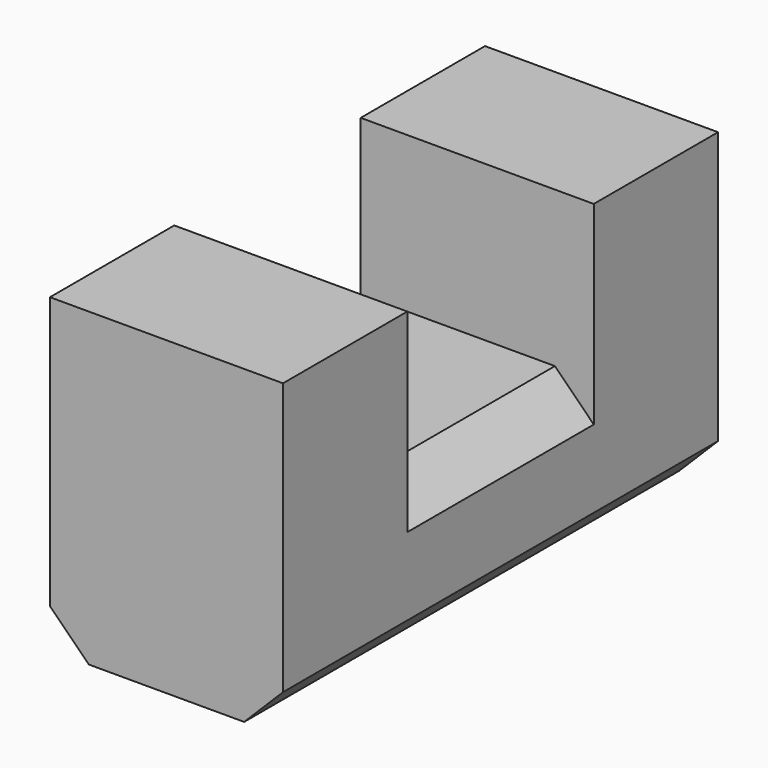
from build123d import *

# Parameters (mm, degrees)
BOX027_W              = 3
BOX027_H              = 3
BOX027_DEPTH          = 2
BOX026_W              = 3
BOX026_H              = 7
BOX026_DEPTH          = 4
CHAMFER001004003_SIZE = 0.5


with BuildPart() as cube027:
    # Box027 → Box027 (new body)
    with BuildSketch(Plane(origin=(0, 2, 2), x_dir=(1, 0, 0), z_dir=(0, 0, 1))):
        with Locations((1.5, 1.5)):
            Rectangle(BOX027_W, BOX027_H)
    extrude(amount=BOX027_DEPTH)


with BuildPart() as chamfer001004003:
    # Box026 → Box026 (new body)
    with BuildSketch(Plane.XY):
        with Locations((1.5, 3.5)):
            Rectangle(BOX026_W, BOX026_H)
    extrude(amount=BOX026_DEPTH)

    # Cut016010: cut Cube027
    add(cube027.part, mode=Mode.SUBTRACT)

    # Chamfer001004003
    chamfer001004003_edges = [chamfer001004003.edges().sort_by_distance(p)[0] for p in [
        (0, 3.5, 2),
        (0, 3.5, 0),
        (3, 3.5, 2),
        (3, 3.5, 0),
    ]]
    chamfer(chamfer001004003_edges, length=CHAMFER001004003_SIZE)


solid = chamfer001004003.part
